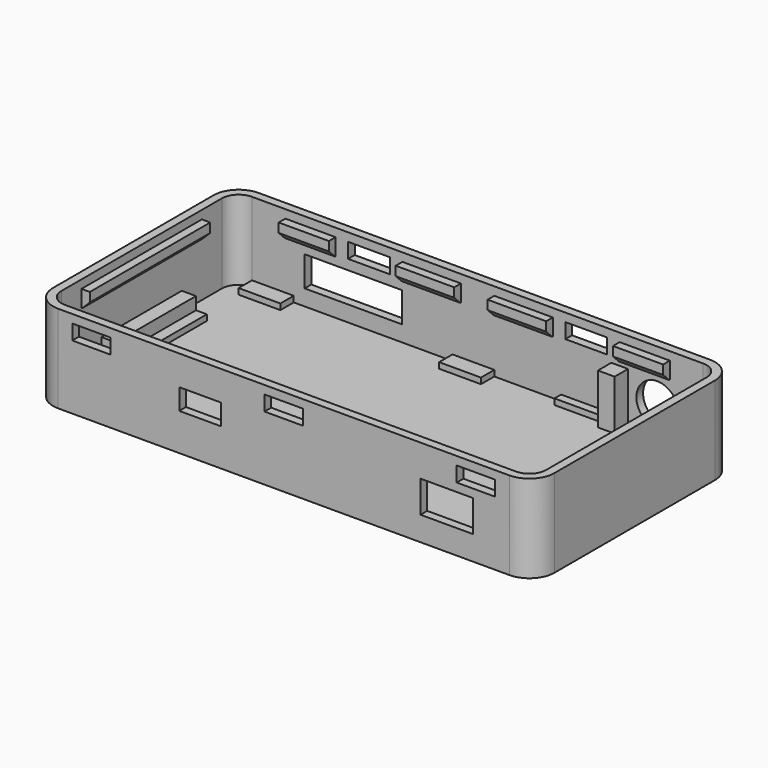
from build123d import *

# Parameters (mm, degrees)
PAD_DEPTH       = 10.5
POCKET_DEPTH    = 9.5
SKETCH002_W     = 4.6
SKETCH002_H     = 1.8
POCKET001_DEPTH = 1
SKETCH003_W     = 5
SKETCH003_H     = 1.8
POCKET002_DEPTH = 1
SKETCH004_W     = 1
SKETCH004_H     = 18
SKETCH004_W_2   = 7
SKETCH004_H_2   = 1
SKETCH004_W_3   = 6
PAD001_DEPTH    = 2
CHAMFER_SIZE    = 0.9
SKETCH005_R     = 2.5
SKETCH005_W     = 11.65
SKETCH005_H     = 3.6
POCKET003_DEPTH = 2.001
SKETCH006_W     = 6.25
SKETCH006_H     = 3.8
SKETCH006_W_2   = 5
SKETCH006_H_2   = 2.5
POCKET004_DEPTH = 1
SKETCH007_W     = 3
SKETCH007_H     = 12
SKETCH007_W_2   = 5
SKETCH007_H_2   = 2
SKETCH007_W_3   = 7
SKETCH007_H_3   = 1
SKETCH007_W_4   = 1
SKETCH007_W_5   = 2
SKETCH007_W_6   = 9
PAD002_DEPTH    = 0.7
SKETCH009_W     = 2
SKETCH009_H     = 2
PAD003_DEPTH    = 6
SKETCH010_W     = 1.7
SKETCH010_H     = 12
PAD004_DEPTH    = 1.5


with BuildPart() as part:
    # Sketch → Pad (new body)
    with BuildSketch(Plane.XY):
        with BuildLine():
            ThreePointArc((0, 3), (0.87868, 0.87868), (3, 0))
            Line((3, 0), (57, 0))
            ThreePointArc((57, 0), (59.12132, 0.87868), (60, 3))
            Line((60, 3), (60, 27))
            ThreePointArc((60, 27), (59.12132, 29.12132), (57, 30))
            Line((57, 30), (3, 30))
            ThreePointArc((3, 30), (0.87868, 29.12132), (0, 27))
            Line((0, 27), (0, 3))
        make_face()
    extrude(amount=PAD_DEPTH)

    # Sketch001 (on Face10 of Pad) → Pocket (cut)
    with BuildSketch(Plane.XY.offset(10.5)):
        with BuildLine():
            ThreePointArc((3, 29), (1.585786, 28.414214), (1, 27))
            Line((1, 3), (1, 27))
            ThreePointArc((1, 3), (1.585786, 1.585786), (3, 1))
            Line((57, 1), (3, 1))
            ThreePointArc((57, 1), (58.414214, 1.585786), (59, 3))
            Line((59, 27), (59, 3))
            ThreePointArc((59, 27), (58.414211, 28.414216), (56.999993, 29))
            Line((3, 29), (56.999993, 29))
        make_face()
    extrude(amount=-POCKET_DEPTH, mode=Mode.SUBTRACT)

    # Sketch002 → Pocket001 (cut)
    with BuildSketch(Plane.XZ):
        with Locations((7, 8.6)):
            Rectangle(SKETCH002_W, SKETCH002_H)
        with Locations((30, 8.6)):
            Rectangle(SKETCH002_W, SKETCH002_H)
        with Locations((53, 8.6)):
            Rectangle(SKETCH002_W, SKETCH002_H)
    extrude(amount=-POCKET001_DEPTH, mode=Mode.SUBTRACT)

    # Sketch003 (on Face24 of Pocket001) → Pocket002 (cut)
    with BuildSketch(Plane.XZ.offset(-29)):
        with Locations((17, 8.6)):
            Rectangle(SKETCH003_W, SKETCH003_H)
        with Locations((43, 8.6)):
            Rectangle(SKETCH003_W, SKETCH003_H)
    extrude(amount=-POCKET002_DEPTH, mode=Mode.SUBTRACT)

    # Sketch004 → Pad001 (join)
    with BuildSketch(Plane.XY.offset(9.5)):
        with Locations((1.5, 15)):
            Rectangle(SKETCH004_W, SKETCH004_H)
        with Locations((13.5, 1.5)):
            Rectangle(SKETCH004_W_2, SKETCH004_H_2)
        with Locations((40, 1.5)):
            Rectangle(SKETCH004_W_2, SKETCH004_H_2)
        with Locations((24.5, 28.5)):
            Rectangle(SKETCH004_W_2, SKETCH004_H_2)
        with Locations((50, 28.5)):
            Rectangle(SKETCH004_W_3, SKETCH004_H_2)
        with Locations((58.5, 15)):
            Rectangle(SKETCH004_W, SKETCH004_H)
        with Locations((10, 28.5)):
            Rectangle(SKETCH004_W_3, SKETCH004_H_2)
        with Locations((35.5, 28.5)):
            Rectangle(SKETCH004_W_2, SKETCH004_H_2)
    extrude(amount=-PAD001_DEPTH)

    # Chamfer
    chamfer_edges = [part.edges().sort_by_distance(p)[0] for p in [
        (40, 2, 7.5),
        (13.5, 2, 7.5),
        (58, 15, 7.5),
        (2, 15, 7.5),
        (10, 28, 7.5),
        (24.5, 28, 7.5),
        (35.5, 28, 7.5),
        (50, 28, 7.5),
    ]]
    chamfer(chamfer_edges, length=CHAMFER_SIZE)

    # Sketch005 → Pocket003 (cut, through all)
    with BuildSketch(Plane.XZ.offset(-28)):
        with Locations((51.5, 4.35)):
            Circle(SKETCH005_R)
        with Locations((15.125, 4.7)):
            Rectangle(SKETCH005_W, SKETCH005_H)
    extrude(amount=-POCKET003_DEPTH, mode=Mode.SUBTRACT)

    # Sketch006 → Pocket004 (cut)
    with BuildSketch(Plane.XZ):
        with Locations((49.5, 4.8)):
            Rectangle(SKETCH006_W, SKETCH006_H)
        with Locations((20, 5.7)):
            Rectangle(SKETCH006_W_2, SKETCH006_H_2)
    extrude(amount=-POCKET004_DEPTH, mode=Mode.SUBTRACT)

    # Sketch007 (on Face10 of Pocket004) → Pad002 (join)
    with BuildSketch(Plane.XY.offset(1)):
        with Locations((2.5, 15)):
            Rectangle(SKETCH007_W, SKETCH007_H)
        with Locations((37.5, 2)):
            Rectangle(SKETCH007_W_2, SKETCH007_H_2)
        with Locations((43.5, 28.5)):
            Rectangle(SKETCH007_W_3, SKETCH007_H_3)
        with Locations((5.5, 28)):
            Rectangle(SKETCH007_W_2, SKETCH007_H_2)
        with Locations((58.5, 15)):
            Rectangle(SKETCH007_W_4, SKETCH007_H)
        with Locations((4, 2)):
            Rectangle(SKETCH007_W_5, SKETCH007_H_2)
        with Locations((29.5, 28)):
            Rectangle(SKETCH007_W_2, SKETCH007_H_2)
        with Locations((20.5, 2)):
            Rectangle(SKETCH007_W_6, SKETCH007_H_2)
    extrude(amount=PAD002_DEPTH)

    # Sketch009 → Pad003 (join)
    with BuildSketch(Plane.XY.offset(1)):
        with Locations((47, 28)):
            Rectangle(SKETCH009_W, SKETCH009_H)
        with Locations((56, 28)):
            Rectangle(SKETCH009_W, SKETCH009_H)
    extrude(amount=PAD003_DEPTH)

    # Sketch010 (on Face111 of Pad003) → Pad004 (join)
    with BuildSketch(Plane.XY.offset(1.7)):
        with Locations((1.85, 15)):
            Rectangle(SKETCH010_W, SKETCH010_H)
    extrude(amount=PAD004_DEPTH)


solid = part.part
